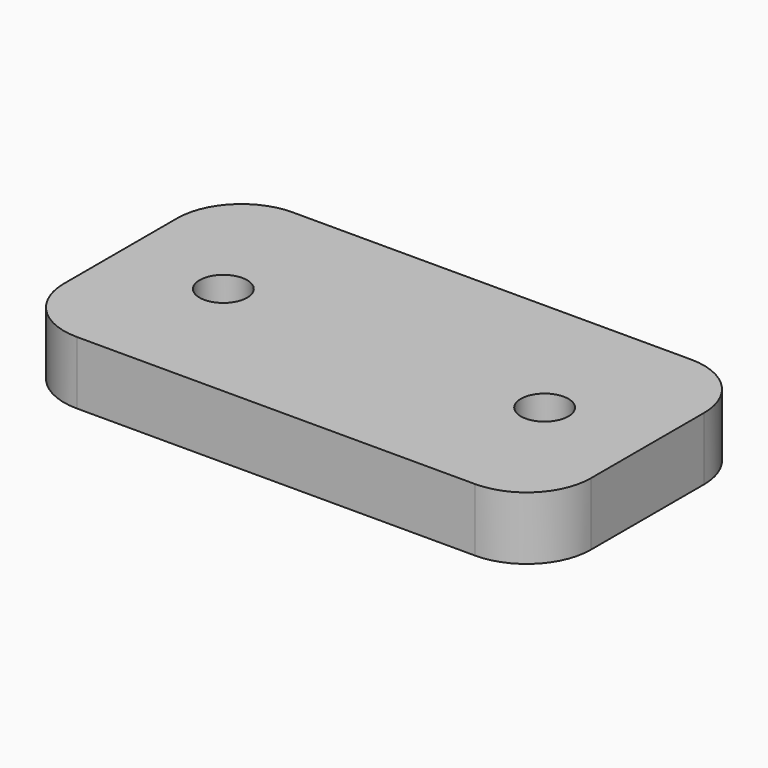
from build123d import *

# Parameters (mm, degrees)
F2_START = 1.6
F2_DEPTH = 4.9
F3_W     = 2
F3_H     = 5.2
F4_DEPTH = 5.95
F5_W     = 13
F5_H     = 3
F6_DEPTH = 12.5
F7_R     = 1.85
F8_DEPTH = 6


with BuildPart() as f2:
    # F1 (on Top) → F2 (new body)
    with BuildSketch(Plane.XY.offset(F2_START)):
        with BuildLine():
            ThreePointArc((20.5, 5.5), (19.0355339059, 9.0355339059), (15.5, 10.5))
            Line((15.5, 10.5), (-15.5, 10.5))
            ThreePointArc((-15.5, 10.5), (-19.0355339059, 9.0355339059), (-20.5, 5.5))
            Line((-20.5, 5.5), (-20.5, -5.5))
            ThreePointArc((-20.5, -5.5), (-19.0355339059, -9.0355339059), (-15.5, -10.5))
            Line((-15.5, -10.5), (15.5, -10.5))
            ThreePointArc((15.5, -10.5), (19.0355339059, -9.0355339059), (20.5, -5.5))
            Line((20.5, -5.5), (20.5, 5.5))
        make_face()
    extrude(amount=F2_DEPTH)

    # F3 (on Front) → F4 (cut, symmetric)
    with BuildSketch(Plane.XZ):
        with BuildLine():
            ThreePointArc((3.6728735344, -2.6), (4.2882357039, -1.3641974005), (4.5, 0))
            ThreePointArc((4.5, 0), (4.2882357039, 1.3641974005), (3.6728735344, 2.6))
            Line((3.6728735344, 2.6), (-3.6728735344, 2.6))
            ThreePointArc((-3.6728735344, 2.6), (-4.5, 0), (-3.6728735344, -2.6))
            Line((-3.6728735344, -2.6), (3.6728735344, -2.6))
        make_face()
        with BuildLine():
            ThreePointArc((3.6728735344, 2.6), (4.2882357039, 1.3641974005), (4.5, 0))
            ThreePointArc((4.5, 0), (4.2882357039, -1.3641974005), (3.6728735344, -2.6))
            Line((3.6728735344, -2.6), (8, -2.6))
            Line((8, -2.6), (8, 2.6))
            Line((8, 2.6), (3.6728735344, 2.6))
        make_face()
        with BuildLine():
            Line((-3.6728735344, 2.6), (3.6728735344, 2.6))
            ThreePointArc((3.6728735344, 2.6), (0, 4.5), (-3.6728735344, 2.6))
        make_face()
        with BuildLine():
            ThreePointArc((-3.6728735344, -2.6), (0, -4.5), (3.6728735344, -2.6))
            Line((3.6728735344, -2.6), (-3.6728735344, -2.6))
        make_face()
        with BuildLine():
            ThreePointArc((-3.6728735344, -2.6), (-4.5, 0), (-3.6728735344, 2.6))
            Line((-3.6728735344, 2.6), (-8, 2.6))
            Line((-8, 2.6), (-8, -2.6))
            Line((-8, -2.6), (-3.6728735344, -2.6))
        make_face()
        with Locations((-9, 0)):
            Rectangle(F3_W, F3_H)
    extrude(amount=F4_DEPTH, both=True, mode=Mode.SUBTRACT)

    # F5 (on Front) → F6 (cut, symmetric)
    with BuildSketch(Plane.XZ):
        Rectangle(F5_W, F5_H)
    extrude(amount=F6_DEPTH, both=True, mode=Mode.SUBTRACT)

    # F7 (on face) → F8 (cut)
    with BuildSketch(Plane(origin=(0, 0, 1.6), x_dir=(1, 0, 0), z_dir=(0, 0, -1))):
        with Locations((-12.5, 0)):
            Circle(F7_R)
        with Locations((12.5, 0)):
            Circle(F7_R)
    extrude(amount=-F8_DEPTH, mode=Mode.SUBTRACT)


solid = f2.part
